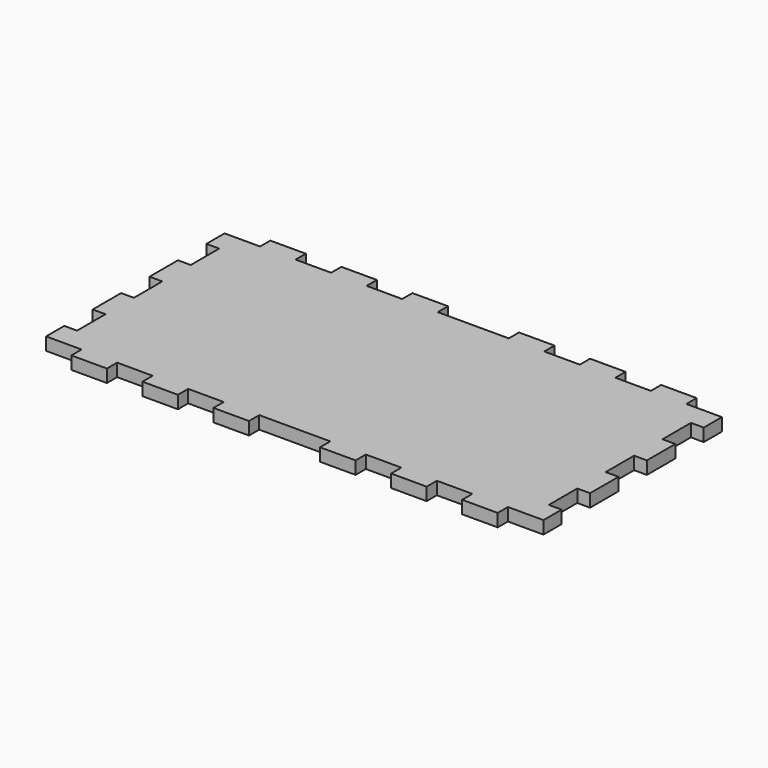
from build123d import *

# Parameters (mm, degrees)
F1_DEPTH = 18


with BuildPart() as f1:
    # F0 (on Top) → F1 (new body)
    with BuildSketch(Plane.XY):
        Polygon((-350, -125), (-350, -157), (-300, -157), (-300, -175), (-250, -175), (-250, -157), (-200, -157), (-200, -175), (-150, -175), (-150, -157), (-100, -157), (-100, -175), (-50, -175), (-50, -157), (0, -157), (50, -157), (50, -175), (100, -175), (100, -157), (150, -157), (150, -175), (200, -175), (200, -157), (250, -157), (250, -175), (300, -175), (300, -157), (332, -157), (350, -157), (350, -125), (332, -125), (332, -75), (350, -75), (350, -25), (332, -25), (332, 25), (350, 25), (350, 75), (332, 75), (332, 125), (350, 125), (350, 157), (300, 157), (300, 175), (250, 175), (250, 157), (200, 157), (200, 175), (150, 175), (150, 157), (100, 157), (100, 175), (50, 175), (50, 157), (0, 157), (-50, 157), (-50, 175), (-100, 175), (-100, 157), (-150, 157), (-150, 175), (-200, 175), (-200, 157), (-250, 157), (-250, 175), (-300, 175), (-300, 157), (-350, 157), (-350, 125), (-332, 125), (-332, 75), (-350, 75), (-350, 25), (-332, 25), (-332, -25), (-350, -25), (-350, -75), (-332, -75), (-332, -125), align=None)
    extrude(amount=F1_DEPTH)


solid = f1.part
